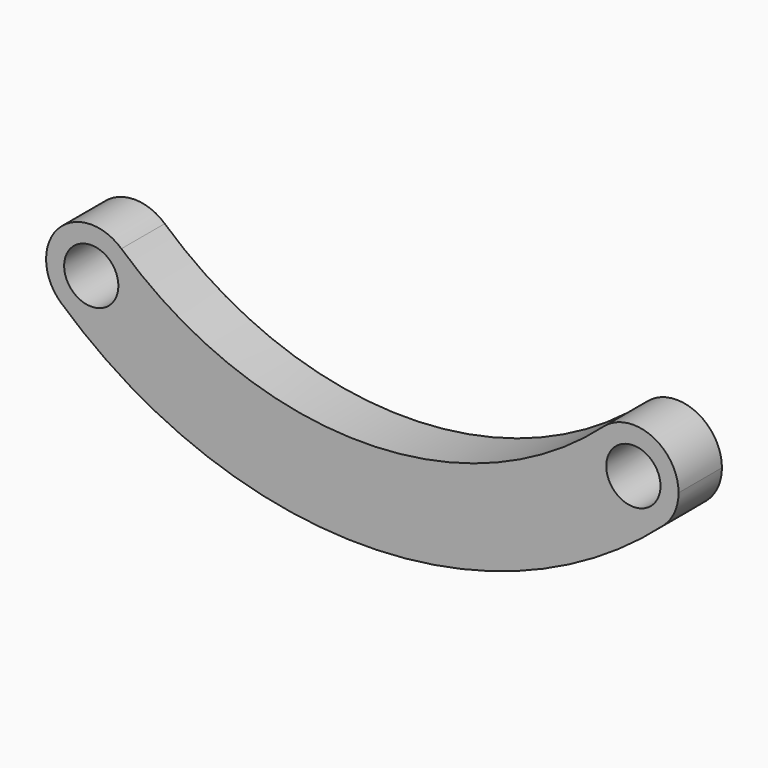
from build123d import *

# Parameters (mm, degrees)
F0_R     = 9.525
F1_DEPTH = 19.05


with BuildPart() as f1:
    # F0 (on Front) → F1 (new body)
    with BuildSketch(Plane.XZ):
        with BuildLine():
            ThreePointArc((10.583333, 11.832526), (14.491826, 6.480942), (15.875, 0))
            ThreePointArc((15.875, 0), (6.480942, -14.491826), (-10.583333, -11.832526))
            ThreePointArc((-10.583333, -11.832526), (95.25, -52.257263), (201.083333, -11.832526))
            ThreePointArc((201.083333, -11.832526), (178.667474, -10.583333), (179.916667, 11.832526))
            ThreePointArc((179.916667, 11.832526), (95.25, -20.507263), (10.583333, 11.832526))
        make_face()
        with BuildLine():
            ThreePointArc((-10.583333, -11.832526), (6.480942, -14.491826), (15.875, 0))
            ThreePointArc((15.875, 0), (14.491826, 6.480942), (10.583333, 11.832526))
            ThreePointArc((10.583333, 11.832526), (-11.832526, 10.583333), (-10.583333, -11.832526))
        make_face()
        Circle(F0_R, mode=Mode.SUBTRACT)
        with BuildLine():
            ThreePointArc((206.375, 0), (196.980942, 14.491826), (179.916667, 11.832526))
            ThreePointArc((179.916667, 11.832526), (178.667474, -10.583333), (201.083333, -11.832526))
            ThreePointArc((201.083333, -11.832526), (204.991826, -6.480942), (206.375, 0))
        make_face()
        with Locations((190.5, 0)):
            Circle(F0_R, mode=Mode.SUBTRACT)
    extrude(amount=F1_DEPTH)


solid = f1.part
